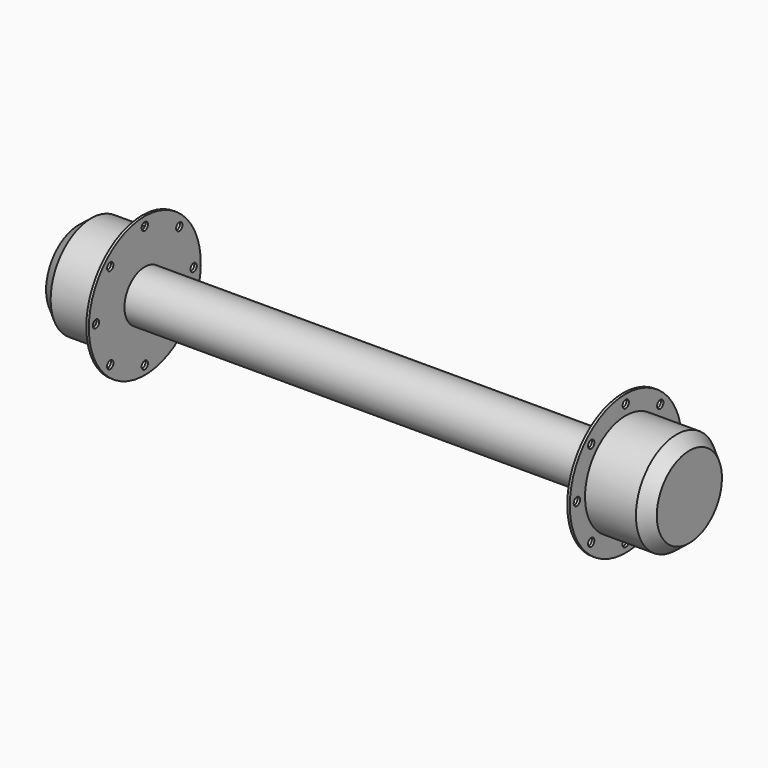
from build123d import *

# Parameters (mm, degrees)
F2_R     = 15.5
F3_DEPTH = 2150.001


with BuildPart() as f1:
    # F0 (on Front) → F1 (revolve)
    with BuildSketch(Plane.XZ):
        Polygon((940, 100), (-940, 100), (-940, 275), (-950, 275), (-950, 200), (-1150, 200), (-1200, 160), (-1200, 0), (1200, 0), (1200, 160), (1150, 200), (950, 200), (950, 275), (940, 275), align=None)
    revolve(axis=Axis((0, 0, 0), (1, 0, 0)))

    # F2 (on face) → F3 (cut, through all)
    with BuildSketch(Plane.YZ.offset(950)):
        with Locations((0, 240)):
            Circle(F2_R)
        with Locations((-169.705627, 169.705627)):
            Circle(F2_R)
        with Locations((-240, 0)):
            Circle(F2_R)
        with Locations((-169.705627, -169.705627)):
            Circle(F2_R)
        with Locations((0, -240)):
            Circle(F2_R)
        with Locations((169.705627, -169.705627)):
            Circle(F2_R)
        with Locations((240, 0)):
            Circle(F2_R)
        with Locations((169.705627, 169.705627)):
            Circle(F2_R)
    extrude(amount=-F3_DEPTH, mode=Mode.SUBTRACT)


solid = f1.part
